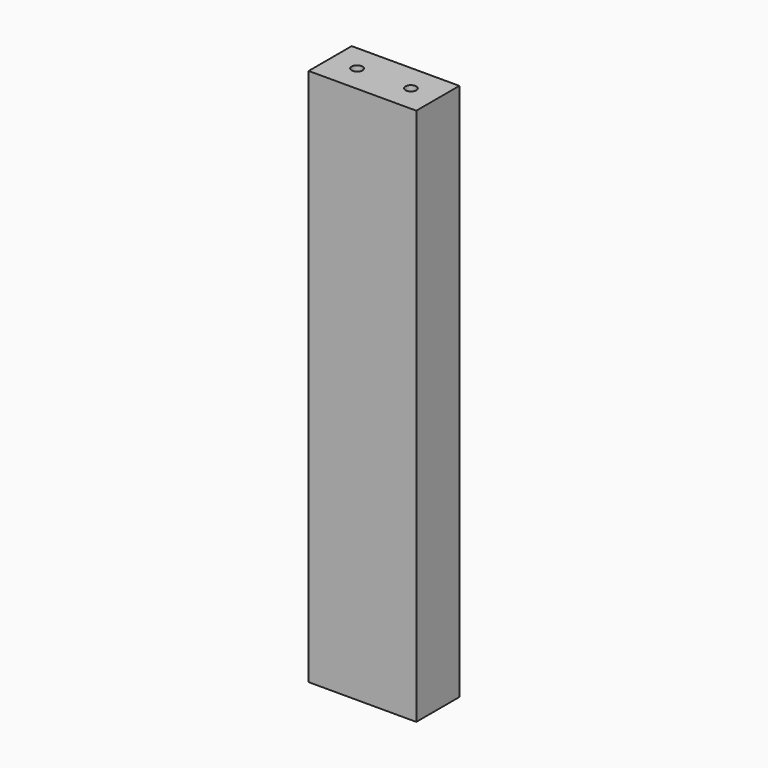
from build123d import *

# Parameters (mm, degrees)
F0_W     = 100
F0_H     = 500
F1_DEPTH = 50
F2_R     = 5
F3_DEPTH = 25
F4_R     = 5
F5_DEPTH = 25


with BuildPart() as f1:
    # F0 (on Front) → F1 (new body)
    with BuildSketch(Plane.XZ):
        Rectangle(F0_W, F0_H)
    extrude(amount=F1_DEPTH)

    # F2 (on face) → F3 (cut)
    with BuildSketch(Plane.XY.offset(250)):
        with Locations((-25, -25)):
            Circle(F2_R)
        with Locations((25, -25)):
            Circle(F2_R)
    extrude(amount=-F3_DEPTH, mode=Mode.SUBTRACT)

    # F4 (on face) → F5 (cut)
    with BuildSketch(Plane(origin=(0, 0, -250), x_dir=(1, 0, 0), z_dir=(0, 0, -1))):
        with Locations((25, 25)):
            Circle(F4_R)
        with Locations((-25, 25)):
            Circle(F4_R)
    extrude(amount=-F5_DEPTH, mode=Mode.SUBTRACT)


solid = f1.part
